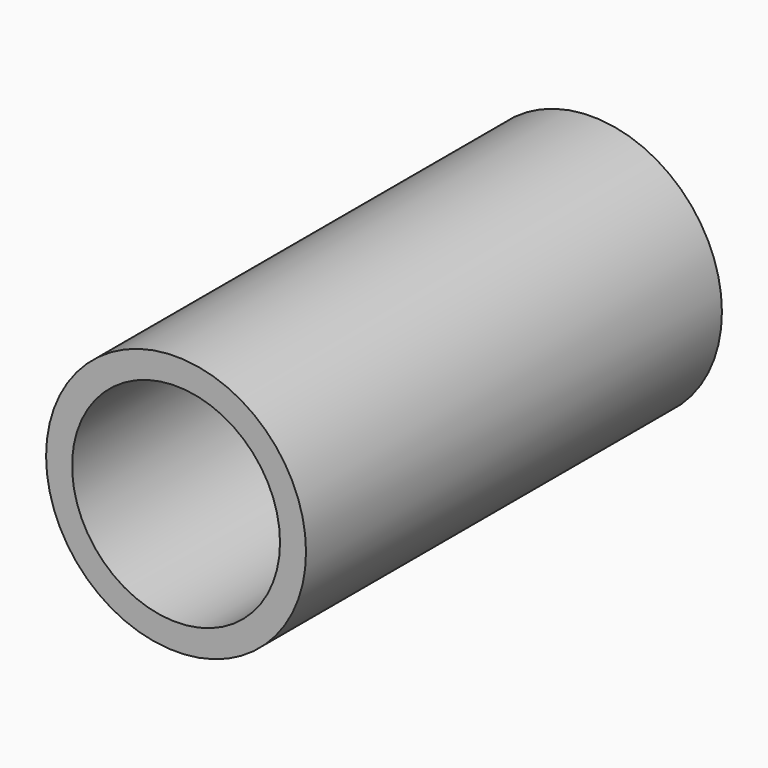
from build123d import *

# Parameters (mm, degrees)
F0_R   = 6.35
F0_R_2 = 5.08


with BuildPart() as f2:
    # F2: sweep along a path in F1
    with BuildLine(Plane.YZ) as f2_path:
        Line((0, 0), (25.4, 0))
    # F0 (on Front) → F2 (sweep)
    with BuildSketch(Plane.XZ):
        Circle(F0_R)
        Circle(F0_R_2, mode=Mode.SUBTRACT)
    sweep(path=f2_path.line)


solid = f2.part
